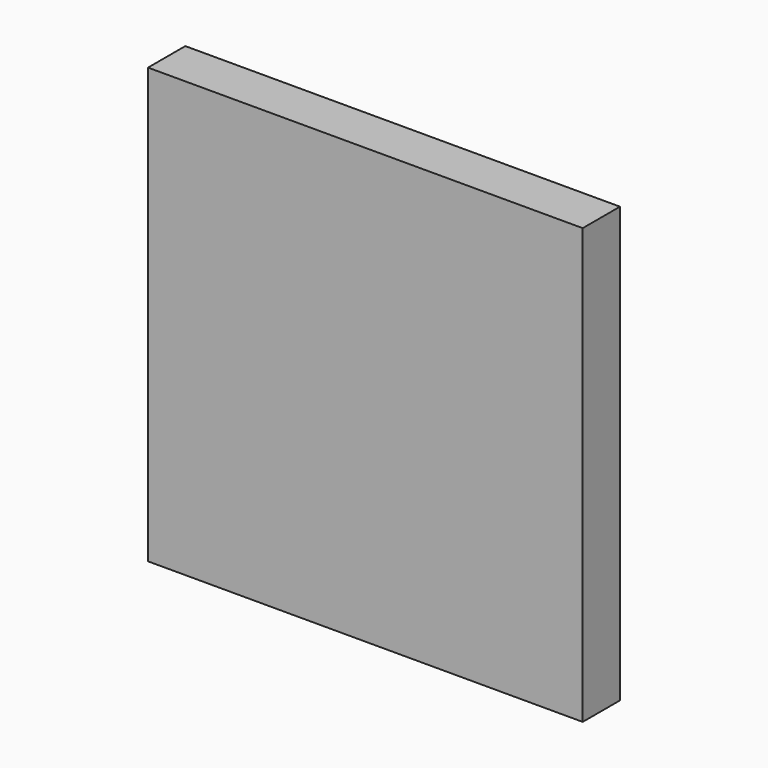
from build123d import *

# Parameters (mm, degrees)
BOX_W     = 14
BOX_H     = 1.5
BOX_DEPTH = 14


with BuildPart() as part:
    # Box → Box (new body)
    with BuildSketch(Plane.XY):
        with Locations((7, 0.75)):
            Rectangle(BOX_W, BOX_H)
    extrude(amount=BOX_DEPTH)


solid = part.part
